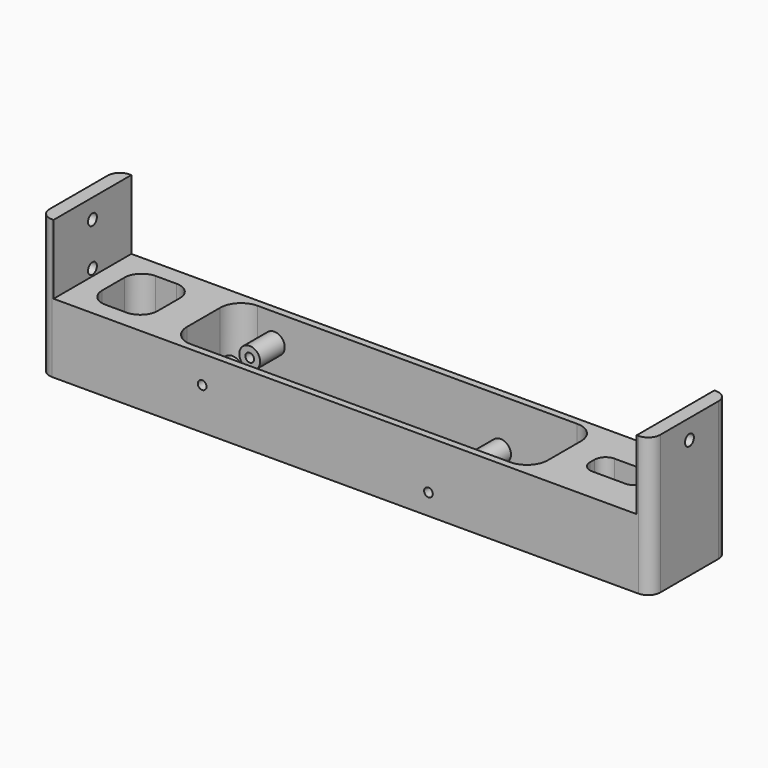
from build123d import *

# Parameters (mm, degrees)
F0_W      = 279.4
F0_H      = 44.45
F1_DEPTH  = 31.75
F2_W      = 165.1
F2_H      = 38.1
F3_DEPTH  = 28.575
F5_DEPTH  = 31.751
F6_W      = 6.35
F6_H      = 44.45
F7_DEPTH  = 31.75
F8_R      = 9.525
F9_R      = 5.588
F10_R     = 2.54
F11_DEPTH = 279.4
F12_W     = 25.4
F12_H     = 28.575
F12_H_2   = 12.7
F13_DEPTH = 31.751
F14_R     = 2.54
F15_DEPTH = 7.62
F16_R     = 7.9375
F17_R     = 5.08
F18_R     = 4.7625
F19_DEPTH = 17.272
F20_R     = 4.7625
F21_DEPTH = 17.272
F22_R     = 1.984375
F23_DEPTH = 41.91
F24_R     = 1.5875
F25_DEPTH = 3.175


with BuildPart() as f1:
    # F0 (on Top) → F1 (new body)
    with BuildSketch(Plane.XY):
        with Locations((139.7, 22.225)):
            Rectangle(F0_W, F0_H)
    extrude(amount=F1_DEPTH)

    # F2 (on face) → F3 (cut)
    with BuildSketch(Plane.XY.offset(31.75)):
        with Locations((139.7, 22.225)):
            Rectangle(F2_W, F2_H)
    extrude(amount=-F3_DEPTH, mode=Mode.SUBTRACT)

    # F4 (on face) → F5 (cut, through all)
    with BuildSketch(Plane(origin=(0, 0, 0), x_dir=(1, 0, 0), z_dir=(0, 0, -1))):
        with BuildLine():
            Line((127, -26.035), (209.867099, -26.025243))
            ThreePointArc((209.867099, -26.025243), (213.405749, -22.066069), (209.55, -18.415))
            Line((209.55, -18.415), (127, -18.415))
            ThreePointArc((127, -18.415), (123.19, -22.225), (127, -26.035))
        make_face()
    extrude(amount=-F5_DEPTH, mode=Mode.SUBTRACT)

    # F6 (on face) → F7 (join)
    with BuildSketch(Plane.XY.offset(31.75)):
        with Locations((3.175, 22.225)):
            Rectangle(F6_W, F6_H)
        with Locations((276.225, 22.225)):
            Rectangle(F6_W, F6_H)
    extrude(amount=F7_DEPTH)

    # F8
    f8_edges = [f1.edges().sort_by_distance(p)[0] for p in [
        (57.15, 3.175, 17.4625),
        (57.15, 41.275, 17.4625),
        (222.25, 3.175, 17.4625),
        (222.25, 41.275, 17.4625),
    ]]
    fillet(f8_edges, radius=F8_R)

    # F9
    f9_edges = [f1.edges().sort_by_distance(p)[0] for p in [
        (0, 44.45, 31.75),
        (0, 0, 31.75),
        (279.4, 44.45, 31.75),
        (279.4, 0, 31.75),
    ]]
    fillet(f9_edges, radius=F9_R)

    # F10 (on Right) → F11 (cut)
    with BuildSketch(Plane.YZ):
        with Locations((22.225, 54.61)):
            Circle(F10_R)
    extrude(amount=F11_DEPTH, mode=Mode.SUBTRACT)

    # F12 (on face) → F13 (cut, through all)
    with BuildSketch(Plane.XY.offset(31.75)):
        with Locations((28.575, 22.225)):
            Rectangle(F12_W, F12_H)
        with Locations((247.65, 22.225)):
            Rectangle(F12_W, F12_H_2)
    extrude(amount=-F13_DEPTH, mode=Mode.SUBTRACT)

    # F14 (on Right) → F15 (cut)
    with BuildSketch(Plane.YZ):
        with Locations((22.225, 34.925)):
            Circle(F14_R)
    extrude(amount=F15_DEPTH, mode=Mode.SUBTRACT)

    # F16
    f16_edges = [f1.edges().sort_by_distance(p)[0] for p in [
        (15.875, 36.5125, 15.875),
        (41.275, 36.5125, 15.875),
        (41.275, 7.9375, 15.875),
        (15.875, 7.9375, 15.875),
    ]]
    fillet(f16_edges, radius=F16_R)

    # F17
    f17_edges = [f1.edges().sort_by_distance(p)[0] for p in [
        (234.95, 28.575, 15.875),
        (260.35, 28.575, 15.875),
        (260.35, 15.875, 15.875),
        (234.95, 15.875, 15.875),
    ]]
    fillet(f17_edges, radius=F17_R)

    # F18 (on face) → F19 (join)
    with BuildSketch(Plane.XZ):
        with Locations((177.8, 9.525)):
            Circle(F18_R)
        with Locations((74.295, 19.05)):
            Circle(F18_R)
    extrude(amount=-F19_DEPTH)

    # F20 (on face) → F21 (join)
    with BuildSketch(Plane(origin=(0, 44.45, 0), x_dir=(-1, 0, 0), z_dir=(0, 1, 0))):
        with Locations((-177.8, 9.525)):
            Circle(F20_R)
        with Locations((-74.295, 19.05)):
            Circle(F20_R)
    extrude(amount=-F21_DEPTH)

    # F22 (on face) → F23 (cut)
    with BuildSketch(Plane.XZ):
        with Locations((74.307166, 19.073443)):
            Circle(F22_R)
        with Locations((177.807808, 9.510602)):
            Circle(F22_R)
    extrude(amount=-F23_DEPTH, mode=Mode.SUBTRACT)

    # F24 (on face) → F25 (cut)
    with BuildSketch(Plane(origin=(0, 44.45, 0), x_dir=(-1, 0, 0), z_dir=(0, 1, 0))):
        with Locations((-177.769601, 9.552136)):
            Circle(F24_R)
        with Locations((-74.274786, 19.058295)):
            Circle(F24_R)
    extrude(amount=-F25_DEPTH, mode=Mode.SUBTRACT)


solid = f1.part
